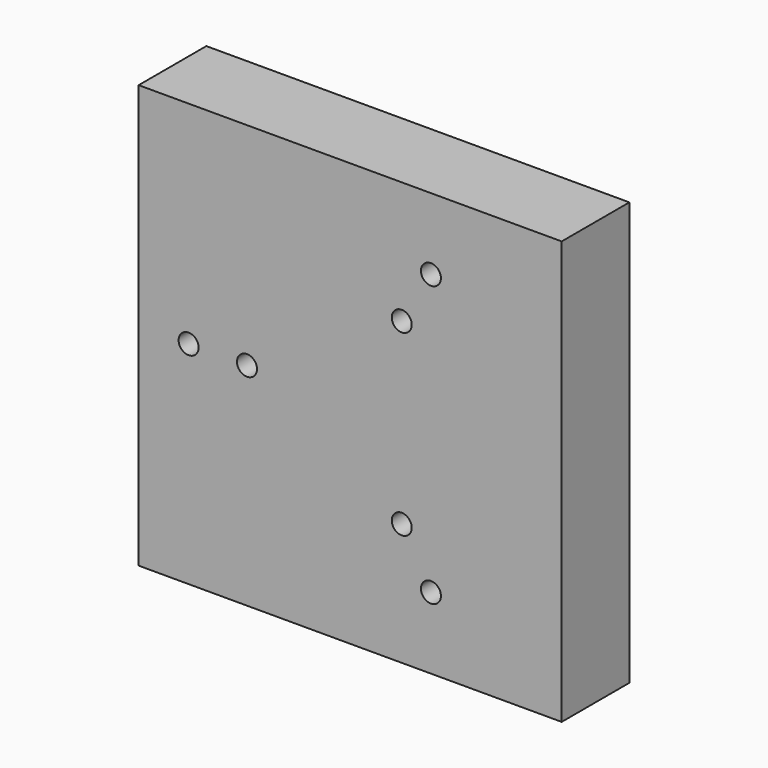
from build123d import *

# Parameters (mm, degrees)
F0_R     = 0.3
F1_DEPTH = 1.27
F2_DEPTH = 2.54


with BuildPart() as f1:
    # F0 (on Front) → F1 (new body)
    with BuildSketch(Plane.XZ):
        with Locations((2.425, 4.2002232084)):
            Circle(F0_R)
    extrude(amount=F1_DEPTH)


with BuildPart() as f1b:
    # F0 (on Front) → F1, piece 2 (new body)
    with BuildSketch(Plane.XZ):
        with Locations((1.5487, 2.6824270857)):
            Circle(F0_R)
    extrude(amount=F1_DEPTH)


with BuildPart() as f1c:
    # F0 (on Front) → F1, piece 3 (new body)
    with BuildSketch(Plane.XZ):
        with Locations((-3.0974, 0)):
            Circle(F0_R)
    extrude(amount=F1_DEPTH)


with BuildPart() as f1d:
    # F0 (on Front) → F1, piece 4 (new body)
    with BuildSketch(Plane.XZ):
        with Locations((-4.85, 0)):
            Circle(F0_R)
    extrude(amount=F1_DEPTH)


with BuildPart() as f1e:
    # F0 (on Front) → F1, piece 5 (new body)
    with BuildSketch(Plane.XZ):
        with Locations((1.5487, -2.6824270857)):
            Circle(F0_R)
    extrude(amount=F1_DEPTH)


with BuildPart() as f1f:
    # F0 (on Front) → F1, piece 6 (new body)
    with BuildSketch(Plane.XZ):
        with Locations((2.425, -4.2002232084)):
            Circle(F0_R)
    extrude(amount=F1_DEPTH)


with BuildPart() as f2:
    # F0 (on Front) → F2 (new body)
    with BuildSketch(Plane.XZ):
        with BuildLine():
            ThreePointArc((0, -6.35), (4.4901280605, -4.4901280605), (6.35, 0))
            ThreePointArc((6.35, 0), (4.4901280605, 4.4901280605), (0, 6.35))
            ThreePointArc((0, 6.35), (-4.4901280605, 4.4901280605), (-6.35, 0))
            ThreePointArc((-6.35, 0), (-4.4901280605, -4.4901280605), (0, -6.35))
        make_face()
        with Locations((-4.85, 0)):
            Circle(F0_R, mode=Mode.SUBTRACT)
        with Locations((-3.0974, 0)):
            Circle(F0_R, mode=Mode.SUBTRACT)
        with Locations((2.425, -4.2002232084)):
            Circle(F0_R, mode=Mode.SUBTRACT)
        with Locations((1.5487, -2.6824270857)):
            Circle(F0_R, mode=Mode.SUBTRACT)
        with Locations((1.5487, 2.6824270857)):
            Circle(F0_R, mode=Mode.SUBTRACT)
        with Locations((2.425, 4.2002232084)):
            Circle(F0_R, mode=Mode.SUBTRACT)
        with BuildLine():
            Line((6.35, -6.35), (6.35, 0))
            ThreePointArc((6.35, 0), (4.4901280605, -4.4901280605), (0, -6.35))
            Line((0, -6.35), (6.35, -6.35))
        make_face()
        with BuildLine():
            ThreePointArc((0, 6.35), (4.4901280605, 4.4901280605), (6.35, 0))
            Line((6.35, 0), (6.35, 6.35))
            Line((6.35, 6.35), (0, 6.35))
        make_face()
        with BuildLine():
            ThreePointArc((-6.35, 0), (-4.4901280605, 4.4901280605), (0, 6.35))
            Line((0, 6.35), (-6.35, 6.35))
            Line((-6.35, 6.35), (-6.35, 0))
        make_face()
        with BuildLine():
            Line((-6.35, -6.35), (0, -6.35))
            ThreePointArc((0, -6.35), (-4.4901280605, -4.4901280605), (-6.35, 0))
            Line((-6.35, 0), (-6.35, -6.35))
        make_face()
    extrude(amount=F2_DEPTH)


solid = Compound([f1.part, f1b.part, f1c.part, f1d.part, f1e.part, f1f.part, f2.part])
